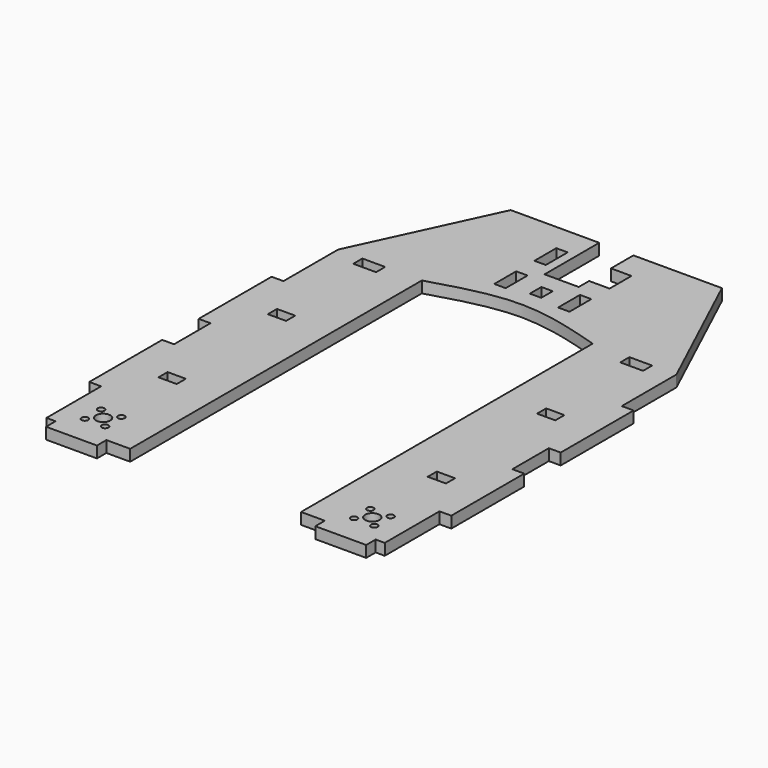
from build123d import *

# Parameters (mm, degrees)
F0_R     = 1.85
F0_R_2   = 4
F0_W     = 10.16
F0_H     = 6.35
F0_W_2   = 12.7
F0_W_3   = 6.35
F0_H_2   = 15.24
F0_H_3   = 8.021719
F1_DEPTH = 6.35


with BuildPart() as f1:
    # F0 (on Top) → F1 (new body)
    with BuildSketch(Plane.XY):
        with BuildLine():
            Line((-60.850162, -6.604), (-60.850162, 0))
            Line((-60.850162, 0), (-47.625, 0))
            Line((-47.625, 0), (-47.625, 203.2))
            add(Edge.make_bspline(
                [(-47.625, 203.2), (-31.75, 207.9625), (0, 217.4875), (31.75, 207.9625), (47.625, 203.2)],
                knots=[0, 0, 0, 0, 48.568161, 97.136322, 97.136322, 97.136322, 97.136322], degree=3))
            Line((47.625, 203.2), (47.625, 0))
            Line((47.625, 0), (60.850162, 0))
            Line((60.850162, 0), (60.850162, -6.604))
            Line((60.850162, -6.604), (89.198314, -6.604))
            Line((89.198314, -6.604), (89.198314, 0))
            Line((89.198314, 0), (94.278314, 0))
            Line((94.278314, 0), (94.278314, 38.1))
            Line((94.278314, 38.1), (100.882314, 38.1))
            Line((100.882314, 38.1), (100.882314, 88.9))
            Line((100.882314, 88.9), (94.278314, 88.9))
            Line((94.278314, 88.9), (94.278314, 114.3))
            Line((94.278314, 114.3), (100.882314, 114.3))
            Line((100.882314, 114.3), (100.882314, 165.1))
            Line((100.882314, 165.1), (94.278314, 165.1))
            Line((94.278314, 165.1), (94.278314, 203.2))
            Line((94.278314, 203.2), (58.854451, 279.166719))
            Line((58.854451, 279.166719), (9.525, 279.166719))
            Line((9.525, 279.166719), (9.525, 263.525))
            Line((9.525, 263.525), (20.955, 263.525))
            Line((20.955, 263.525), (20.955, 248.285))
            Line((20.955, 248.285), (9.525, 248.285))
            Line((9.525, 248.285), (9.525, 241.066719))
            Line((9.525, 241.066719), (-9.525, 241.066719))
            Line((-9.525, 241.066719), (-9.525, 279.166719))
            Line((-9.525, 279.166719), (-58.854451, 279.166719))
            Line((-58.854451, 279.166719), (-94.278314, 203.2))
            Line((-94.278314, 203.2), (-94.278314, 165.1))
            Line((-94.278314, 165.1), (-100.882314, 165.1))
            Line((-100.882314, 165.1), (-100.882314, 114.3))
            Line((-100.882314, 114.3), (-94.278314, 114.3))
            Line((-94.278314, 114.3), (-94.278314, 88.9))
            Line((-94.278314, 88.9), (-100.882314, 88.9))
            Line((-100.882314, 88.9), (-100.882314, 38.1))
            Line((-100.882314, 38.1), (-94.278314, 38.1))
            Line((-94.278314, 38.1), (-94.278314, 0))
            Line((-94.278314, 0), (-89.198314, 0))
            Line((-89.198314, 0), (-89.198314, -6.604))
            Line((-89.198314, -6.604), (-60.850162, -6.604))
        make_face()
        with Locations((-80.681092, 9.743146)):
            Circle(F0_R, mode=Mode.SUBTRACT)
        with Locations((-80.681092, 21.056854)):
            Circle(F0_R, mode=Mode.SUBTRACT)
        with Locations((-69.367384, 9.743146)):
            Circle(F0_R, mode=Mode.SUBTRACT)
        with Locations((-75.024238, 15.4)):
            Circle(F0_R_2, mode=Mode.SUBTRACT)
        with Locations((-69.367384, 21.056854)):
            Circle(F0_R, mode=Mode.SUBTRACT)
        with Locations((-75.024238, 63.5)):
            Rectangle(F0_W, F0_H, mode=Mode.SUBTRACT)
        with Locations((69.367384, 9.743146)):
            Circle(F0_R, mode=Mode.SUBTRACT)
        with Locations((75.024238, 15.4)):
            Circle(F0_R_2, mode=Mode.SUBTRACT)
        with Locations((69.367384, 21.056854)):
            Circle(F0_R, mode=Mode.SUBTRACT)
        with Locations((80.681092, 9.743146)):
            Circle(F0_R, mode=Mode.SUBTRACT)
        with Locations((80.681092, 21.056854)):
            Circle(F0_R, mode=Mode.SUBTRACT)
        with Locations((75.024238, 63.5)):
            Rectangle(F0_W, F0_H, mode=Mode.SUBTRACT)
        with Locations((-75.024238, 139.7)):
            Rectangle(F0_W, F0_H, mode=Mode.SUBTRACT)
        with Locations((-74.405786, 200.025)):
            Rectangle(F0_W_2, F0_H, mode=Mode.SUBTRACT)
        with Locations((-17.78, 227.960319)):
            Rectangle(F0_W_3, F0_H_2, mode=Mode.SUBTRACT)
        with Locations((-17.78, 255.905)):
            Rectangle(F0_W_3, F0_H_2, mode=Mode.SUBTRACT)
        with Locations((75.024238, 139.7)):
            Rectangle(F0_W, F0_H, mode=Mode.SUBTRACT)
        with Locations((74.405786, 200.025)):
            Rectangle(F0_W_2, F0_H, mode=Mode.SUBTRACT)
        with Locations((0, 226.895859)):
            Rectangle(F0_W_3, F0_H_3, mode=Mode.SUBTRACT)
        with Locations((17.78, 227.960319)):
            Rectangle(F0_W_3, F0_H_2, mode=Mode.SUBTRACT)
    extrude(amount=F1_DEPTH)


solid = f1.part
